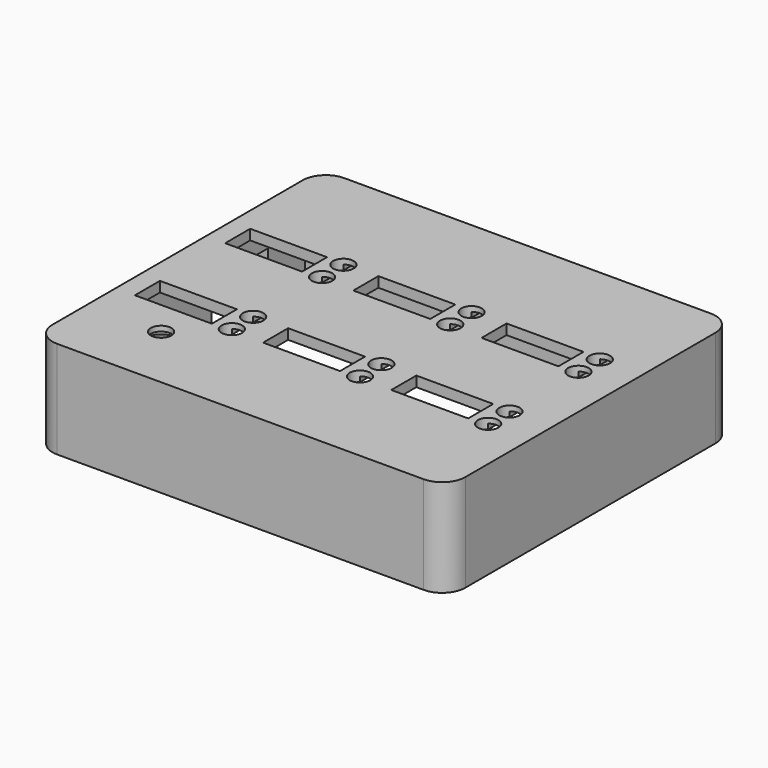
from build123d import *

# Parameters (mm, degrees)
SKETCH_W                           = 80.5
SKETCH_H                           = 58.5
PAD_DEPTH                          = 19
POCKET_DEPTH                       = 17
PAD001_DEPTH                       = 19
POLARPATTERN_COUNT                 = 2
POLARPATTERN_ANGLE                 = 180
POCKET001_DEPTH                    = 17
POLARPATTERN001_COUNT              = 2
POLARPATTERN001_ANGLE              = 180
SKETCH004_R                        = 1.25
POCKET002_DEPTH                    = 15
SKETCH005_W                        = 3
SKETCH005_H                        = 13.75
SKETCH005_H_2                      = 10.5
POCKET003_DEPTH                    = 13.25
SKETCH006_R                        = 2
SKETCH006_W                        = 15
SKETCH006_H                        = 6.1
POCKET004_DEPTH                    = 235.715097
SKETCH006_LINEARPATTERN_2_R        = 2
SKETCH006_LINEARPATTERN_2_W        = 15
SKETCH006_LINEARPATTERN_2_H        = 6.1
POCKET004_LINEARPATTERN_2_DEPTH    = 235.715097
SKETCH006_LINEARPATTERN_3_R        = 2
SKETCH006_LINEARPATTERN_3_W        = 15
SKETCH006_LINEARPATTERN_3_H        = 6.1
POCKET004_LINEARPATTERN_3_DEPTH    = 235.715097
LINEARPATTERN001_COUNT             = 2
LINEARPATTERN001_PITCH             = 22
SKETCH007_R                        = 2
POCKET005_DEPTH                    = 2.001
SKETCH008_W                        = 2.5
SKETCH008_H                        = 13.2
POCKET006_DEPTH                    = 1
SKETCH008_LINEARPATTERN002_2_W     = 2.5
SKETCH008_LINEARPATTERN002_2_H     = 13.2
POCKET006_LINEARPATTERN002_2_DEPTH = 1
SKETCH008_LINEARPATTERN002_3_W     = 2.5
SKETCH008_LINEARPATTERN002_3_H     = 13.2
POCKET006_LINEARPATTERN002_3_DEPTH = 1
LINEARPATTERN003_COUNT             = 2
LINEARPATTERN003_PITCH             = 22
SKETCH009_R                        = 3
POCKET007_DEPTH                    = 1


with BuildPart() as part:
    # Sketch → Pad (new body)
    with BuildSketch(Plane.XY):
        Rectangle(SKETCH_W, SKETCH_H)
    extrude(amount=PAD_DEPTH)

    # Sketch001 (on Face5 of Pad) → Pocket (cut)
    with BuildSketch(Plane(origin=(0, 0, 0), x_dir=(1, 0, 0), z_dir=(0, 0, -1))):
        Polygon((-37.25, 27.25), (32.25, 27.25), (37.25, 22.25), (37.25, -22.25), (32.25, -27.25), (-37.25, -27.25), align=None)
    extrude(amount=-POCKET_DEPTH, mode=Mode.SUBTRACT)

    # Sketch002 (on Face5 of Pocket) → Pad001 (join)
    with BuildSketch(Plane.XY.offset(19)):
        with BuildLine():
            ThreePointArc((-35.75, 35), (-38.931982, 33.681979), (-40.25, 30.499995))
            Line((-40.25, 30.499995), (-40.25, 29.25))
            Line((-40.25, 29.25), (0, 29.25))
            Line((0, 35), (0, 29.25))
            Line((-35.75, 35), (0, 35))
        make_face()
    pad001 = extrude(amount=-PAD001_DEPTH)

    # Mirrored: Pad001 across Sketch002 V_Axis
    add(pad001.mirror(Plane(origin=(0, 0, 19), x_dir=(0, 0, 1), z_dir=(1, 0, 0))))

    # Mirrored001: Pad001 across XZ
    add(pad001.mirror(Plane.XZ))

    # PolarPattern: Pad001 ×2 about axis
    polarpattern_axis = Axis((0, 0, 0), (0, 0, 1))
    for i in range(1, POLARPATTERN_COUNT):
        add(pad001.rotate(polarpattern_axis, i * POLARPATTERN_ANGLE / (POLARPATTERN_COUNT - 1)))

    # Sketch003 (on Face6 of Pad001) → Pocket001 (cut)
    with BuildSketch(Plane(origin=(0, 0, 0), x_dir=(1, 0, 0), z_dir=(0, 0, -1))):
        with BuildLine():
            Line((0, -32), (0, -29.25))
            Line((-33.022822, -29.25), (0, -29.25))
            ThreePointArc((-33.151924, -32), (-32.7533, -30.640683), (-33.022822, -29.25))
            Line((0, -32), (-33.151924, -32))
        make_face()
    pocket001 = extrude(amount=-POCKET001_DEPTH, mode=Mode.SUBTRACT)

    # Mirrored002: Pocket001 across YZ
    add(pocket001.mirror(Plane.YZ), mode=Mode.SUBTRACT)

    # Mirrored003: Pocket001 across XZ
    add(pocket001.mirror(Plane.XZ), mode=Mode.SUBTRACT)

    # PolarPattern001: Pocket001 ×2 about axis
    polarpattern001_axis = Axis((0, 0, 0), (0, 0, -1))
    for i in range(1, POLARPATTERN001_COUNT):
        add(pocket001.rotate(polarpattern001_axis, i * POLARPATTERN001_ANGLE / (POLARPATTERN001_COUNT - 1)), mode=Mode.SUBTRACT)

    # Sketch004 (on Face11 of PolarPattern001) → Pocket002 (cut)
    with BuildSketch(Plane(origin=(0, 0, 0), x_dir=(1, 0, 0), z_dir=(0, 0, -1))):
        with Locations((-35.75, -30.5)):
            Circle(SKETCH004_R)
        with Locations((-35.75, 30.5)):
            Circle(SKETCH004_R)
        with Locations((35.75, 30.5)):
            Circle(SKETCH004_R)
        with Locations((35.75, -30.5)):
            Circle(SKETCH004_R)
    extrude(amount=-POCKET002_DEPTH, mode=Mode.SUBTRACT)

    # Sketch005 (on Face1 of Pocket002) → Pocket003 (cut)
    with BuildSketch(Plane(origin=(0, 0, 0), x_dir=(1, 0, 0), z_dir=(0, 0, -1))):
        with Locations((-38.75, -11.375)):
            Rectangle(SKETCH005_W, SKETCH005_H)
        with Locations((-38.75, 19)):
            Rectangle(SKETCH005_W, SKETCH005_H_2)
    extrude(amount=-POCKET003_DEPTH, mode=Mode.SUBTRACT)

    # Sketch006 (on Face26 of Pocket003) → Pocket004 (cut, through all)
    with BuildSketch(Plane.XY.offset(19)):
        with Locations((-18, 12.6)):
            Circle(SKETCH006_R)
        with Locations((-18, 7.4)):
            Circle(SKETCH006_R)
        with Locations((-29, 9.95)):
            Rectangle(SKETCH006_W, SKETCH006_H)
    pocket004 = extrude(amount=-POCKET004_DEPTH, mode=Mode.SUBTRACT)

    # Sketch006 LinearPattern 2 → Pocket004 LinearPattern 2 (cut, through all)
    with BuildSketch(Plane(origin=(25, 0, 19), x_dir=(1, 0, 0), z_dir=(0, 0, 1))):
        with Locations((-18, 12.6)):
            Circle(SKETCH006_LINEARPATTERN_2_R)
        with Locations((-18, 7.4)):
            Circle(SKETCH006_LINEARPATTERN_2_R)
        with Locations((-29, 9.95)):
            Rectangle(SKETCH006_LINEARPATTERN_2_W, SKETCH006_LINEARPATTERN_2_H)
    pocket004_linearpattern_2 = extrude(amount=-POCKET004_LINEARPATTERN_2_DEPTH, mode=Mode.SUBTRACT)

    # Sketch006 LinearPattern 3 → Pocket004 LinearPattern 3 (cut, through all)
    with BuildSketch(Plane(origin=(50, 0, 19), x_dir=(1, 0, 0), z_dir=(0, 0, 1))):
        with Locations((-18, 12.6)):
            Circle(SKETCH006_LINEARPATTERN_3_R)
        with Locations((-18, 7.4)):
            Circle(SKETCH006_LINEARPATTERN_3_R)
        with Locations((-29, 9.95)):
            Rectangle(SKETCH006_LINEARPATTERN_3_W, SKETCH006_LINEARPATTERN_3_H)
    pocket004_linearpattern_3 = extrude(amount=-POCKET004_LINEARPATTERN_3_DEPTH, mode=Mode.SUBTRACT)

    # LinearPattern001: Pocket004, Pocket004 LinearPattern 2, Pocket004 LinearPattern 3 ×2
    with Locations(*[(0, -i * LINEARPATTERN001_PITCH, 0) for i in range(1, LINEARPATTERN001_COUNT)]):
        add(pocket004, mode=Mode.SUBTRACT)
        add(pocket004_linearpattern_2, mode=Mode.SUBTRACT)
        add(pocket004_linearpattern_3, mode=Mode.SUBTRACT)

    # Sketch007 (on Face28 of MultiTransform) → Pocket005 (cut, through all)
    with BuildSketch(Plane(origin=(0, 0, 17), x_dir=(1, 0, 0), z_dir=(0, 0, -1))):
        with Locations((-25.875, 22)):
            Circle(SKETCH007_R)
    extrude(amount=-POCKET005_DEPTH, mode=Mode.SUBTRACT)

    # Sketch008 (on Face28 of Pocket005) → Pocket006 (cut)
    with BuildSketch(Plane(origin=(0, 0, 17), x_dir=(1, 0, 0), z_dir=(0, 0, -1))):
        with Locations((-18, 12)):
            Rectangle(SKETCH008_W, SKETCH008_H)
    pocket006 = extrude(amount=-POCKET006_DEPTH, mode=Mode.SUBTRACT)

    # Sketch008 LinearPattern002 2 → Pocket006 LinearPattern002 2 (cut)
    with BuildSketch(Plane(origin=(25, 0, 17), x_dir=(1, 0, 0), z_dir=(0, 0, -1))):
        with Locations((-18, 12)):
            Rectangle(SKETCH008_LINEARPATTERN002_2_W, SKETCH008_LINEARPATTERN002_2_H)
    pocket006_linearpattern002_2 = extrude(amount=-POCKET006_LINEARPATTERN002_2_DEPTH, mode=Mode.SUBTRACT)

    # Sketch008 LinearPattern002 3 → Pocket006 LinearPattern002 3 (cut)
    with BuildSketch(Plane(origin=(50, 0, 17), x_dir=(1, 0, 0), z_dir=(0, 0, -1))):
        with Locations((-18, 12)):
            Rectangle(SKETCH008_LINEARPATTERN002_3_W, SKETCH008_LINEARPATTERN002_3_H)
    pocket006_linearpattern002_3 = extrude(amount=-POCKET006_LINEARPATTERN002_3_DEPTH, mode=Mode.SUBTRACT)

    # LinearPattern003: Pocket006, Pocket006 LinearPattern002 2, Pocket006 LinearPattern002 3 ×2
    with Locations(*[(0, i * LINEARPATTERN003_PITCH, 0) for i in range(1, LINEARPATTERN003_COUNT)]):
        add(pocket006, mode=Mode.SUBTRACT)
        add(pocket006_linearpattern002_2, mode=Mode.SUBTRACT)
        add(pocket006_linearpattern002_3, mode=Mode.SUBTRACT)

    # Sketch009 (on Face28 of MultiTransform001) → Pocket007 (cut)
    with BuildSketch(Plane(origin=(0, 0, 17), x_dir=(1, 0, 0), z_dir=(0, 0, -1))):
        with Locations((-25.875, 22)):
            Circle(SKETCH009_R)
    extrude(amount=-POCKET007_DEPTH, mode=Mode.SUBTRACT)


solid = part.part
